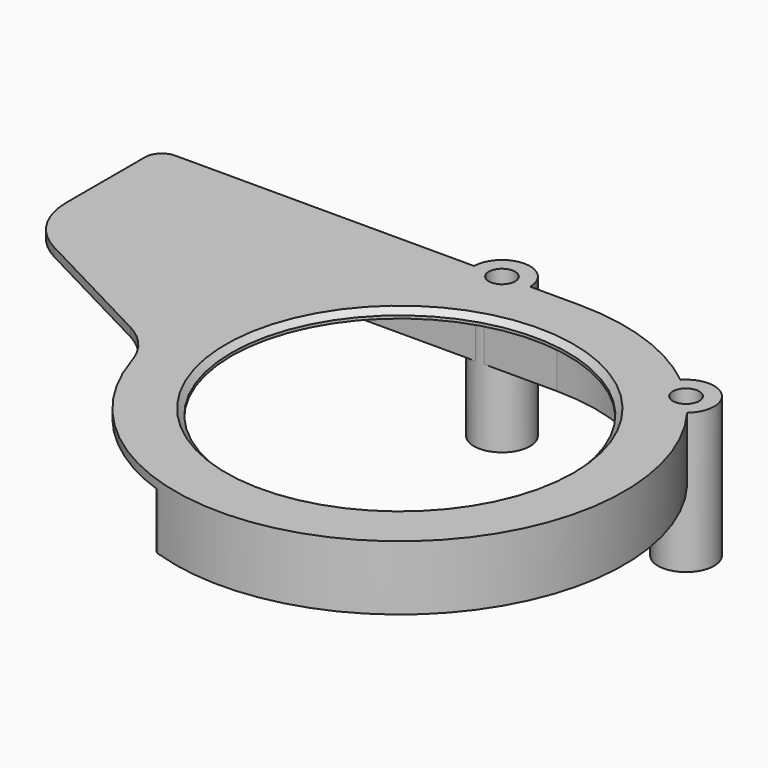
from build123d import *

# Parameters (mm, degrees)
SKETCH_R        = 60
PAD_DEPTH       = 23
POCKET_DEPTH    = 20
SKETCH002_R     = 10
PAD001_DEPTH    = 50
SKETCH005_R     = 2.8
POCKET001_DEPTH = 50.001
SKETCH006_R     = 4.7
POCKET002_DEPTH = 6
FILLET_R        = 26
CHAMFER_SIZE    = 2
FILLET001_R     = 6
FILLET002_R     = 3


with BuildPart() as part:
    # Sketch → Pad (new body)
    with BuildSketch(Plane.XY):
        with BuildLine():
            ThreePointArc((-78.765475, -14), (61.318839, -51.38093), (0, 80))
            Line((-150, 80), (0, 80))
            Line((-150, 80), (-150, 23.233627))
            Line((-150, 23.233627), (-78.765475, -14))
        make_face()
        Circle(SKETCH_R, mode=Mode.SUBTRACT)
    extrude(amount=PAD_DEPTH)

    # Sketch001 (on Face6 of Pad) → Pocket (cut)
    with BuildSketch(Plane(origin=(0, 0, 0), x_dir=(1, 0, 0), z_dir=(0, 0, -1))):
        with BuildLine():
            Line((-178.35, 70), (0, 70))
            ThreePointArc((0, -70), (70, 0), (0, 70))
            Line((-178.35, -70), (0, -70))
            Line((-178.35, 70), (-178.35, -70))
        make_face()
    extrude(amount=-POCKET_DEPTH, mode=Mode.SUBTRACT)

    # Sketch002 (on Face6 of Pocket) → Pad001 (join)
    with BuildSketch(Plane.XY.offset(23)):
        with Locations((57.547184, 55.57267)):
            Circle(SKETCH002_R)
        with Locations((-27.510509, 79.89632)):
            Circle(SKETCH002_R)
    extrude(amount=-PAD001_DEPTH)

    # Sketch005 (on Face5 of Pad001) → Pocket001 (cut, through all)
    with BuildSketch(Plane.XY.offset(23)):
        with Locations((-27.510509, 79.89632)):
            Circle(SKETCH005_R)
        with Locations((57.547184, 55.57267)):
            Circle(SKETCH005_R)
    extrude(amount=-POCKET001_DEPTH, mode=Mode.SUBTRACT)

    # Sketch006 (on Face15 of Pocket001) → Pocket002 (cut)
    with BuildSketch(Plane.XY.offset(23)):
        with Locations((-27.510509, 79.89632)):
            Circle(SKETCH006_R)
        with Locations((57.547184, 55.57267)):
            Circle(SKETCH006_R)
    extrude(amount=-POCKET002_DEPTH, mode=Mode.SUBTRACT)

    # Fillet
    fillet_edges = [part.edges().sort_by_distance(p)[0] for p in [
        (-150, 23.233627, 21.5),
        (-78.765475, -14, 21.5),
    ]]
    fillet(fillet_edges, radius=FILLET_R)

    # Chamfer
    chamfer_edges = [part.edges().sort_by_distance(p)[0] for p in [
        (-60, 0, 23),
    ]]
    chamfer(chamfer_edges, length=CHAMFER_SIZE)

    # Fillet001
    fillet001_edges = [part.edges().sort_by_distance(p)[0] for p in [
        (-150, 80, 11.5),
    ]]
    fillet(fillet001_edges, radius=FILLET001_R)

    # Fillet002
    fillet002_edges = [part.edges().sort_by_distance(p)[0] for p in [
        (-38.729833, -70, 10),
    ]]
    fillet(fillet002_edges, radius=FILLET002_R)


solid = part.part
